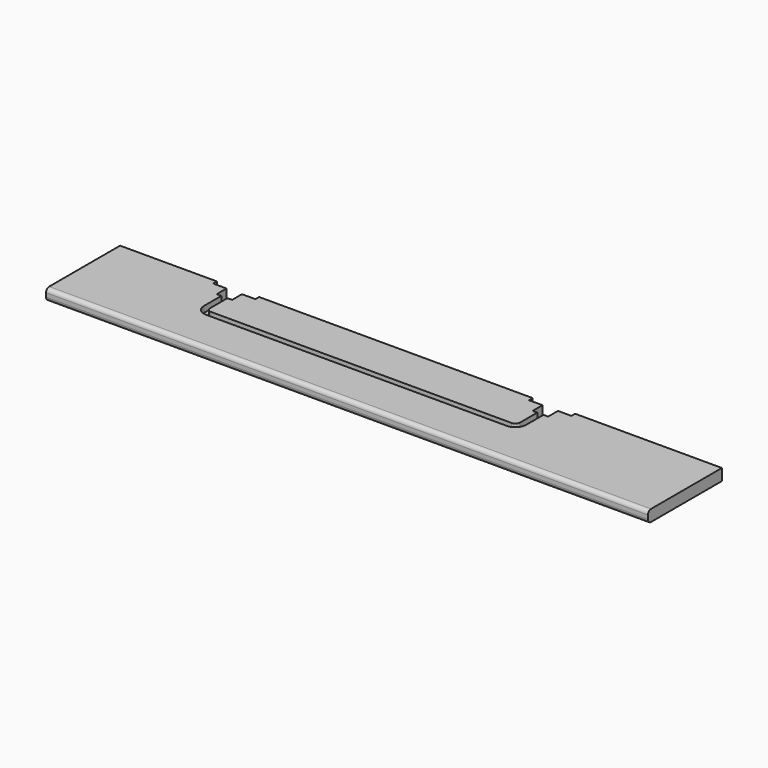
from build123d import *

# Parameters (mm, degrees)
F0_W      = 120
F0_H      = 15
F1_DEPTH  = 781
F3_W      = 8
F3_H      = 8
F5_W      = 55
F5_H      = 12
F6_DEPTH  = 25
F7_W      = 20
F7_H      = 32
F9_DEPTH  = 25
F8_W      = 20
F8_H      = 32
F10_DEPTH = 25
F11_R     = 5


with BuildPart() as f1:
    # F0 (on Right) → F1 (new body)
    with BuildSketch(Plane.YZ):
        Rectangle(F0_W, F0_H)
    extrude(amount=F1_DEPTH)

    # F4: sweep along a path in F2
    with BuildLine(Plane.XY.offset(7.5)) as f4_path:
        Line((153, 60), (153, 10))
        ThreePointArc((153, 10), (155.928932, 2.928932), (163, 0))
        Line((163, 0), (553, 0))
        ThreePointArc((553, 0), (560.071068, 2.928932), (563, 10))
        Line((563, 10), (563, 60))
    # F3 (on face) → F4 (sweep, cut)
    with BuildSketch(Plane(origin=(0, 60, 0), x_dir=(-1, 0, 0), z_dir=(0, 1, 0))):
        with Locations((-152.987316, 11.5)):
            Rectangle(F3_W, F3_H)
        with Locations((-152.987316, 3.5)):
            Rectangle(F3_W, F3_H)
    sweep(path=f4_path.line, mode=Mode.SUBTRACT)

    # F5 (on face) → F6 (cut)
    with BuildSketch(Plane.XY.offset(7.5)):
        with Locations((152.987316, 60)):
            Rectangle(F5_W, F5_H)
        with Locations((152.987316, 60)):
            Rectangle(F5_W, F5_H)
        with Locations((563.012684, 60)):
            Rectangle(F5_W, F5_H)
        with Locations((563.012684, 60)):
            Rectangle(F5_W, F5_H)
    extrude(amount=-F6_DEPTH, mode=Mode.SUBTRACT)

    # F7 (on face) → F9 (cut)
    with BuildSketch(Plane.XY.offset(7.5)):
        with Locations((152.987316, 54)):
            Rectangle(F7_W, F7_H)
        with Locations((152.987316, 54)):
            Rectangle(F7_W, F7_H)
    extrude(amount=-F9_DEPTH, mode=Mode.SUBTRACT)

    # F8 (on face) → F10 (cut)
    with BuildSketch(Plane.XY.offset(7.5)):
        with Locations((563.012684, 54)):
            Rectangle(F8_W, F8_H)
        with Locations((563.012684, 54)):
            Rectangle(F8_W, F8_H)
    extrude(amount=-F10_DEPTH, mode=Mode.SUBTRACT)

    # F11
    f11_edges = [f1.edges().sort_by_distance(p)[0] for p in [
        (390.5, -60, -7.5),
        (390.5, -60, 7.5),
    ]]
    fillet(f11_edges, radius=F11_R)


solid = f1.part
